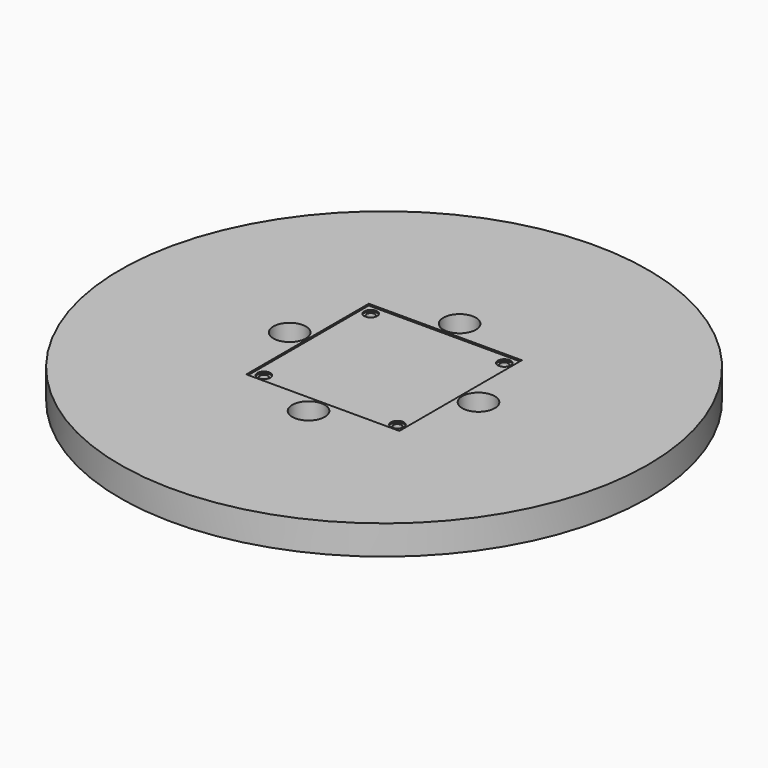
from build123d import *

# Parameters (mm, degrees)
SKETCH003_R      = 162.0844056183
PAD002_DEPTH     = 18
SKETCH009_W      = 94
SKETCH009_H      = 94
POCKET002_DEPTH  = 1
HOLE_D           = 5
HOLE_DEPTH       = 10
HOLE_CBORE_D     = 8
HOLE_CBORE_DEPTH = 1
SKETCH011_R      = 10
POCKET003_DEPTH  = 18.001


with BuildPart() as part:
    # Sketch003 → Pad002 (new body)
    with BuildSketch(Plane.XY):
        Circle(SKETCH003_R)
    extrude(amount=PAD002_DEPTH)

    # Sketch009 (on Face3 of Pad002) → Pocket002 (cut)
    with BuildSketch(Plane.XY.offset(18)):
        Rectangle(SKETCH009_W, SKETCH009_H)
    extrude(amount=-POCKET002_DEPTH, mode=Mode.SUBTRACT)

    # Hole
    with Locations(Plane.XY.offset(17)):
        with Locations((-41, 41), (41, 41), (-41, -41), (41, -41)):
            CounterBoreHole(HOLE_D / 2, HOLE_CBORE_D / 2, HOLE_CBORE_DEPTH, depth=HOLE_DEPTH)

    # Sketch011 (on Face3 of Hole) → Pocket003 (cut, through all)
    with BuildSketch(Plane.XY.offset(18)):
        with Locations((-57.9827560573, 0)):
            Circle(SKETCH011_R)
        with Locations((0, 57.9827560573)):
            Circle(SKETCH011_R)
        with Locations((57.9827560573, 0)):
            Circle(SKETCH011_R)
        with Locations((0, -57.9827560573)):
            Circle(SKETCH011_R)
    extrude(amount=-POCKET003_DEPTH, mode=Mode.SUBTRACT)


with BuildPart() as part_1:
    # Clone004 placement: moved
    add(part.part.moved(Location((0, 0, -24))))


solid = part_1.part
